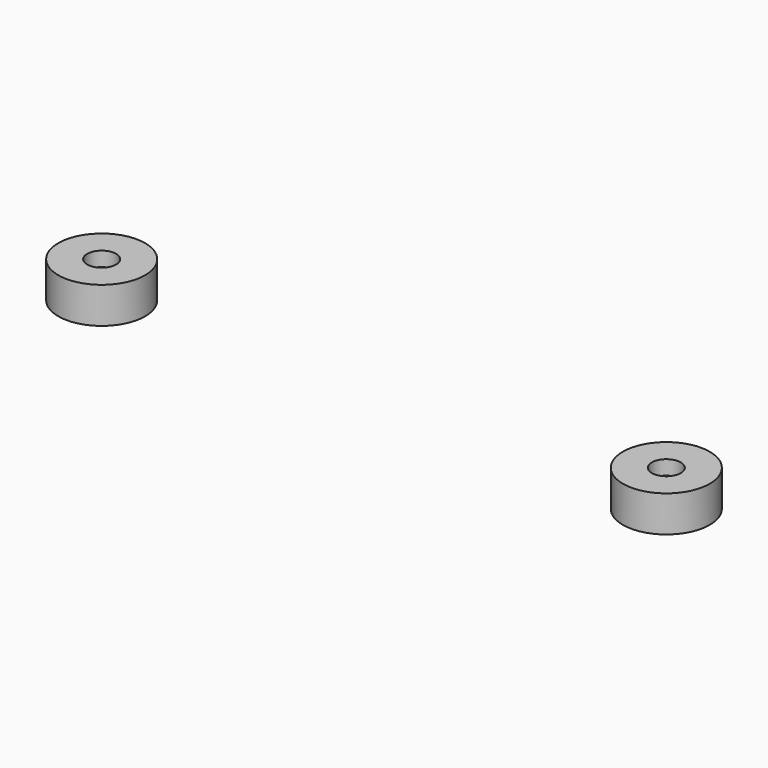
from build123d import *

# Parameters (mm, degrees)
CYLINDER011_R          = 2
CYLINDER011_DEPTH      = 5
CYLINDER012_R          = 4.5
CYLINDER012_DEPTH      = 3
CYLINDER010_R          = 6
CYLINDER010_DEPTH      = 5
CYLINDER014_R          = 2
CYLINDER014_DEPTH      = 5
CYLINDER013_R          = 4.5
CYLINDER013_DEPTH      = 3
CYLINDER018_R          = 6
CYLINDER018_DEPTH      = 5
CUT012_PLACEMENT_ANGLE = 180


with BuildPart() as cylinder011:
    # Cylinder011 → Cylinder011 (new body)
    with BuildSketch(Plane(origin=(-39.01, -14.6034, 15), x_dir=(1, 0, 0), z_dir=(0, 0, 1))):
        Circle(CYLINDER011_R)
    extrude(amount=CYLINDER011_DEPTH)


with BuildPart() as cylinder012:
    # Cylinder012 → Cylinder012 (new body)
    with BuildSketch(Plane(origin=(-39.01, -14.6034, 15), x_dir=(1, 0, 0), z_dir=(0, 0, 1))):
        Circle(CYLINDER012_R)
    extrude(amount=CYLINDER012_DEPTH)


with BuildPart() as cut010:
    # Cylinder010 → Cylinder010 (new body)
    with BuildSketch(Plane(origin=(-39.01, -14.6034, 15), x_dir=(1, 0, 0), z_dir=(0, 0, 1))):
        Circle(CYLINDER010_R)
    extrude(amount=CYLINDER010_DEPTH)

    # Cut009: cut Cylinder012
    add(cylinder012.part, mode=Mode.SUBTRACT)

    # Cut010: cut Cylinder011
    add(cylinder011.part, mode=Mode.SUBTRACT)


with BuildPart() as cylinder014:
    # Cylinder014 → Cylinder014 (new body)
    with BuildSketch(Plane(origin=(-39.01, -14.6034, 15), x_dir=(1, 0, 0), z_dir=(0, 0, 1))):
        Circle(CYLINDER014_R)
    extrude(amount=CYLINDER014_DEPTH)


with BuildPart() as cylinder013:
    # Cylinder013 → Cylinder013 (new body)
    with BuildSketch(Plane(origin=(-39.01, -14.6034, 15), x_dir=(1, 0, 0), z_dir=(0, 0, 1))):
        Circle(CYLINDER013_R)
    extrude(amount=CYLINDER013_DEPTH)


with BuildPart() as base_mount:
    # Cylinder018 → Cylinder018 (new body)
    with BuildSketch(Plane(origin=(-39.01, -14.6034, 15), x_dir=(1, 0, 0), z_dir=(0, 0, 1))):
        Circle(CYLINDER018_R)
    extrude(amount=CYLINDER018_DEPTH)

    # Cut011: cut Cylinder013
    add(cylinder013.part, mode=Mode.SUBTRACT)

    # Cut012: cut Cylinder014
    add(cylinder014.part, mode=Mode.SUBTRACT)


with BuildPart() as base_mount_1:
    # Cut012 placement: moved
    add(base_mount.part.moved(Location((-0.02, -29.2068, 0))).rotate(Axis((-0.02, -29.2068, 0), (0, 0, 1)), CUT012_PLACEMENT_ANGLE))

    # Fusion012: union Cut010
    add(cut010.part)


solid = base_mount_1.part
